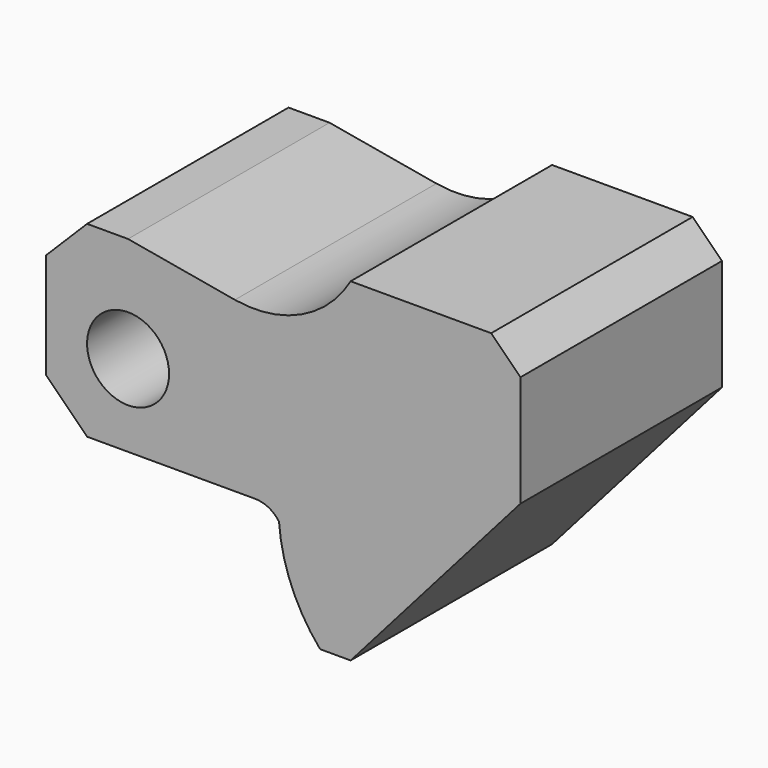
from build123d import *

# Parameters (mm, degrees)
F0_R     = 7
F1_DEPTH = 43


with BuildPart() as f1:
    # F0 (on Front) → F1 (new body)
    with BuildSketch(Plane.XZ):
        with BuildLine():
            ThreePointArc((-20.091246, -9.108256), (-17.950626, -18.121598), (-13.076884, -26))
            Line((-13.076884, -26), (-7.864951, -26))
            Line((-7.864951, -26), (21.135049, 7))
            Line((21.135049, 7), (21.135049, 26))
            Line((21.135049, 26), (16.135049, 31))
            Line((16.135049, 31), (-7.864951, 31))
            ThreePointArc((-7.864951, 31), (-16.289978, 23.276069), (-27.621866, 21.783252))
            Line((-27.621866, 21.783252), (-45.864951, 25))
            Line((-45.864951, 25), (-52.864951, 25))
            Line((-52.864951, 25), (-59.864951, 18))
            Line((-59.864951, 18), (-59.864951, 0))
            Line((-59.864951, 0), (-52.864951, -7))
            Line((-52.864951, -7), (-24.170194, -7))
            ThreePointArc((-24.170194, -7), (-21.874407, -7.558226), (-20.091246, -9.108256))
        make_face()
        with Locations((-45.864951, 7)):
            Circle(F0_R, mode=Mode.SUBTRACT)
    extrude(amount=F1_DEPTH)


solid = f1.part
